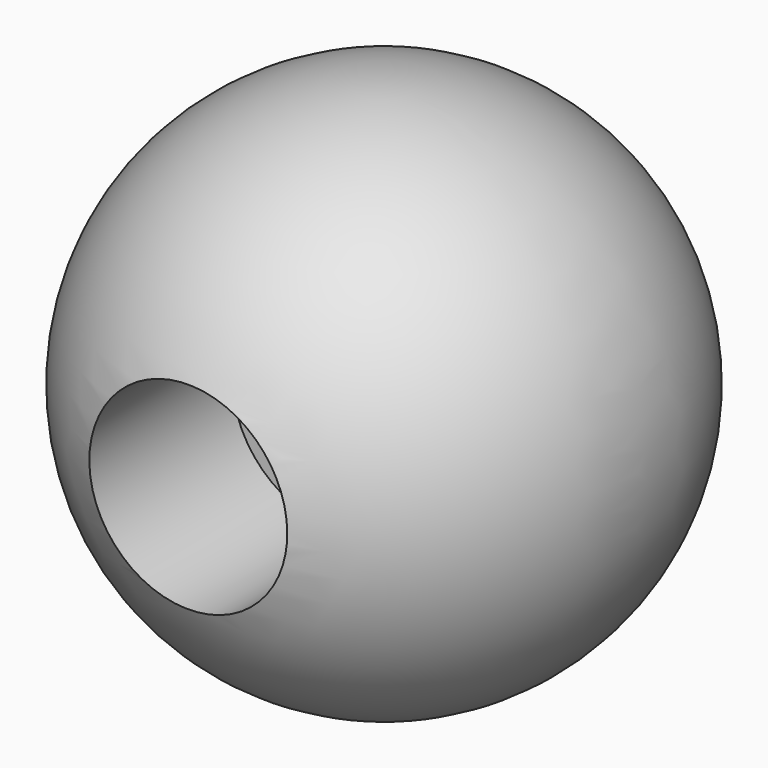
from build123d import *

# Parameters (mm, degrees)
F3_R     = 9.525
F4_DEPTH = 19.05


with BuildPart() as f1:
    # F0 (on Front) → F1 (revolve)
    with BuildSketch(Plane.XZ):
        with BuildLine():
            Line((0, 25.4), (0, -25.4))
            ThreePointArc((0, -25.4), (25.4, 0), (0, 25.4))
        make_face()
    revolve(axis=Axis((0, 0, 0), (0, 0, -1)))

    # F3 (on offset) → F4 (cut)
    with BuildSketch(Plane.XZ.offset(25.4)):
        Circle(F3_R)
    extrude(amount=-F4_DEPTH, mode=Mode.SUBTRACT)


solid = f1.part
